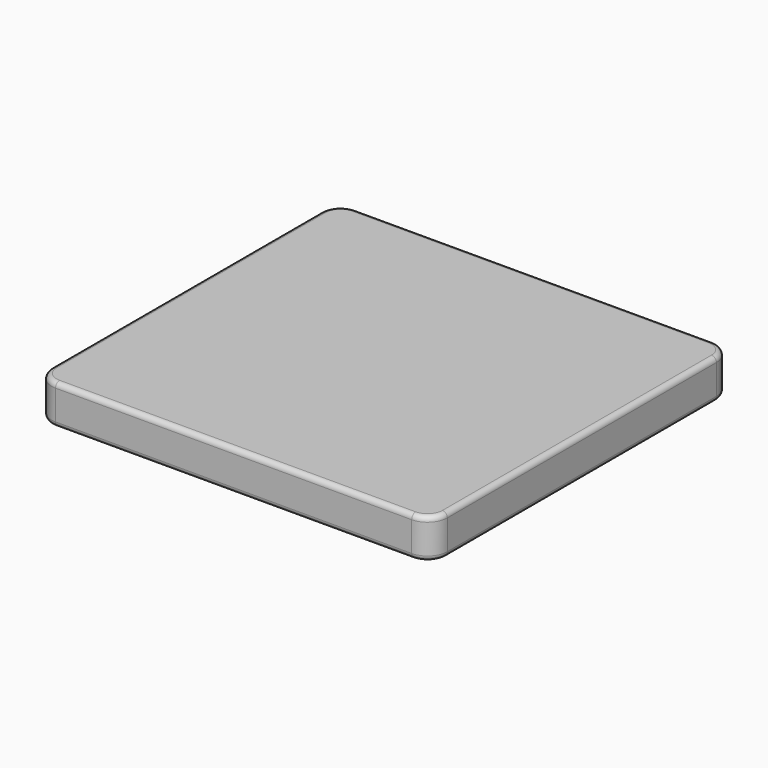
from build123d import *

# Parameters (mm, degrees)
F0_W     = 2032
F0_H     = 1930.4
F1_DEPTH = 203.2
F2_R     = 101.6
F3_R     = 25.4
F4_R     = 25.4


with BuildPart() as f1:
    # F0 (on Top) → F1 (new body)
    with BuildSketch(Plane.XY):
        with Locations((1016, 965.2)):
            Rectangle(F0_W, F0_H)
    extrude(amount=F1_DEPTH)

    # F2
    f2_edges = [f1.edges().sort_by_distance(p)[0] for p in [
        (0, 1930.4, 101.6),
        (0, 0, 101.6),
        (2032, 0, 101.6),
        (2032, 1930.4, 101.6),
    ]]
    fillet(f2_edges, radius=F2_R)

    # F3
    f3_edges = [f1.edges().sort_by_distance(p)[0] for p in [
        (1016, 1930.4, 203.2),
        (29.757951, 1900.642049, 203.2),
        (0, 965.2, 203.2),
        (29.757951, 29.757951, 203.2),
        (1016, 0, 203.2),
        (2002.242049, 29.757951, 203.2),
        (2032, 965.2, 203.2),
        (2002.242049, 1900.642049, 203.2),
    ]]
    fillet(f3_edges, radius=F3_R)

    # F4
    f4_edges = [f1.edges().sort_by_distance(p)[0] for p in [
        (2002.242049, 29.757951, 0),
        (1016, 0, 0),
        (29.757951, 29.757951, 0),
        (0, 965.2, 0),
        (29.757951, 1900.642049, 0),
        (1016, 1930.4, 0),
        (2002.242049, 1900.642049, 0),
        (2032, 965.2, 0),
    ]]
    fillet(f4_edges, radius=F4_R)


solid = f1.part
